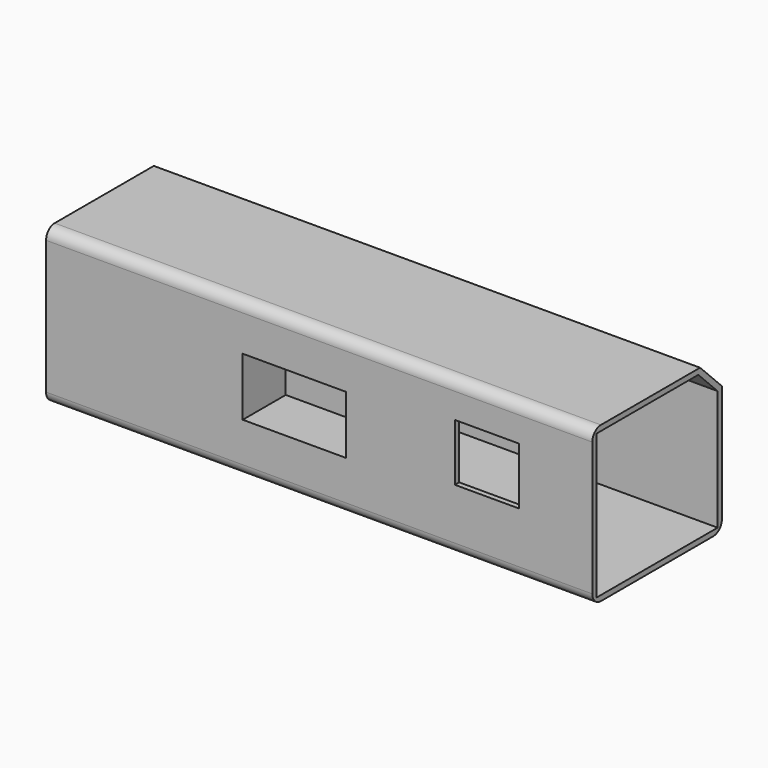
from build123d import *

# Parameters (mm, degrees)
F0_W     = 75.315695256
F0_H     = 72.1342116594
F1_DEPTH = 254
F2_SIZE  = 12.7
F3_W     = 48.0028837919
F3_H     = 27.0442329347
F4_DEPTH = 25
F5_T     = -2.5
F6_R     = 5
F7_W     = 29.8640429974
F7_H     = 26.566028595
F8_DEPTH = 25


with BuildPart() as f1:
    # F0 (on Right) → F1 (new body)
    with BuildSketch(Plane.YZ):
        with Locations((98.0980489403, 22.5397534668)):
            Rectangle(F0_W, F0_H)
    extrude(amount=F1_DEPTH)

    # F2
    f2_edges = [f1.edges().sort_by_distance(p)[0] for p in [
        (127, 135.755897, 58.606859),
    ]]
    chamfer(f2_edges, length=F2_SIZE)

    # F3 (on face) → F4 (cut)
    with BuildSketch(Plane.XZ.offset(-60.4402013123)):
        with Locations((115.4388412833, 23.4042126685)):
            Rectangle(F3_W, F3_H)
        with Locations((115.4388412833, 23.4042126685)):
            Rectangle(F3_W, F3_H)
    extrude(amount=-F4_DEPTH, mode=Mode.SUBTRACT)

    # F5
    f5_openings = [f1.faces().sort_by_distance(p)[0] for p in [
        (254, 97.59442, 22.060093),
    ]]
    offset(amount=F5_T, openings=f5_openings, kind=Kind.INTERSECTION)

    # F6
    f6_edges = [f1.edges().sort_by_distance(p)[0] for p in [
        (127, 60.440201, -13.527352),
        (127, 60.440201, 58.606859),
        (127, 135.755897, -13.527352),
    ]]
    fillet(f6_edges, radius=F6_R)

    # F7 (on face) → F8 (cut)
    with BuildSketch(Plane.XZ.offset(-60.4402013123)):
        with Locations((205.0164192915, 28.6153107882)):
            Rectangle(F7_W, F7_H)
    extrude(amount=-F8_DEPTH, mode=Mode.SUBTRACT)


solid = f1.part
